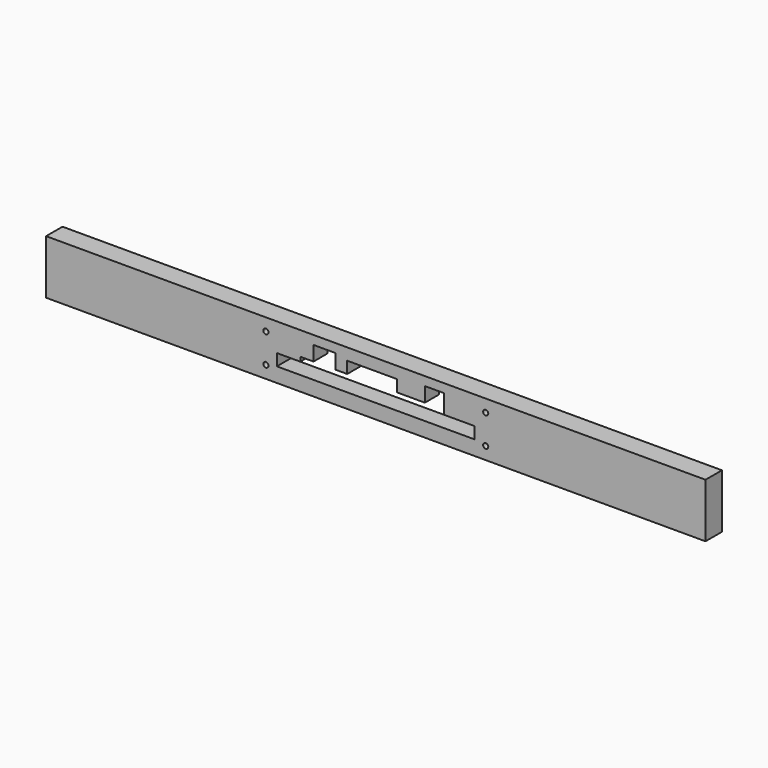
from build123d import *

# Parameters (mm, degrees)
SKETCH008_W          = 450
SKETCH008_H          = 14
PAD008_DEPTH         = 37
SKETCH015_R          = 1.75
POCKET007_DEPTH      = 14.001
POCKET007_DEPTH_BACK = 0.001
SKETCH016_W          = 34
SKETCH016_H          = 2
POCKET008_DEPTH      = 4.5
POCKET010_DEPTH      = 2


with BuildPart() as part:
    # Sketch008 → Pad008 (new body)
    with BuildSketch(Plane.XY):
        with Locations((0, 43)):
            Rectangle(SKETCH008_W, SKETCH008_H)
    extrude(amount=PAD008_DEPTH)

    # Sketch015 (on Face1 of Pad008) → Pocket007 (cut, two sides)
    with BuildSketch(Plane(origin=(0, 50, 0), x_dir=(-1, 0, 0), z_dir=(0, 1, 0))) as pocket007_sk:
        with Locations((-75, 28.5)):
            Circle(SKETCH015_R)
        with Locations((-75, 8.5)):
            Circle(SKETCH015_R)
        with Locations((75, 28.5)):
            Circle(SKETCH015_R)
        with Locations((75, 8.5)):
            Circle(SKETCH015_R)
        Polygon((-67.5, 18), (-46.5, 18), (-46.5, 31), (-33.5, 31), (-33.5, 21), (-14.5, 21), (-14.5, 29), (19.5, 29), (19.5, 21), (27.5, 21), (27.5, 31), (42.5, 31), (42.5, 21), (51.5, 21), (51.5, 18), (67.5, 18), (67.5, 10), (-67.5, 10), align=None)
    extrude(amount=-POCKET007_DEPTH, mode=Mode.SUBTRACT)
    extrude(pocket007_sk.sketch, amount=POCKET007_DEPTH_BACK, mode=Mode.SUBTRACT)

    # Sketch016 (on Face1 of Pocket007) → Pocket008 (cut)
    with BuildSketch(Plane(origin=(0, 50, 0), x_dir=(-1, 0, 0), z_dir=(0, 1, 0))):
        with Locations((2.5, 30)):
            Rectangle(SKETCH016_W, SKETCH016_H)
    extrude(amount=-POCKET008_DEPTH, mode=Mode.SUBTRACT)

    # Sketch019 (on Face1 of Pocket008) → Pocket010 (cut)
    with BuildSketch(Plane(origin=(0, 50, 0), x_dir=(-1, 0, 0), z_dir=(0, 1, 0))):
        with BuildLine():
            ThreePointArc((-75, 33.5), (-78.535534, 32.035534), (-80, 28.5))
            Line((-80, 8.5), (-80, 28.5))
            ThreePointArc((-80, 8.5), (-78.535534, 4.964466), (-75, 3.5))
            Line((75, 3.5), (-75, 3.5))
            ThreePointArc((75, 3.5), (78.535534, 4.964466), (80, 8.5))
            Line((80, 28.500023), (80, 8.5))
            ThreePointArc((80, 28.500023), (78.535526, 32.035542), (75, 33.5))
            Line((-75, 33.5), (75, 33.5))
        make_face()
    extrude(amount=-POCKET010_DEPTH, mode=Mode.SUBTRACT)


solid = part.part
